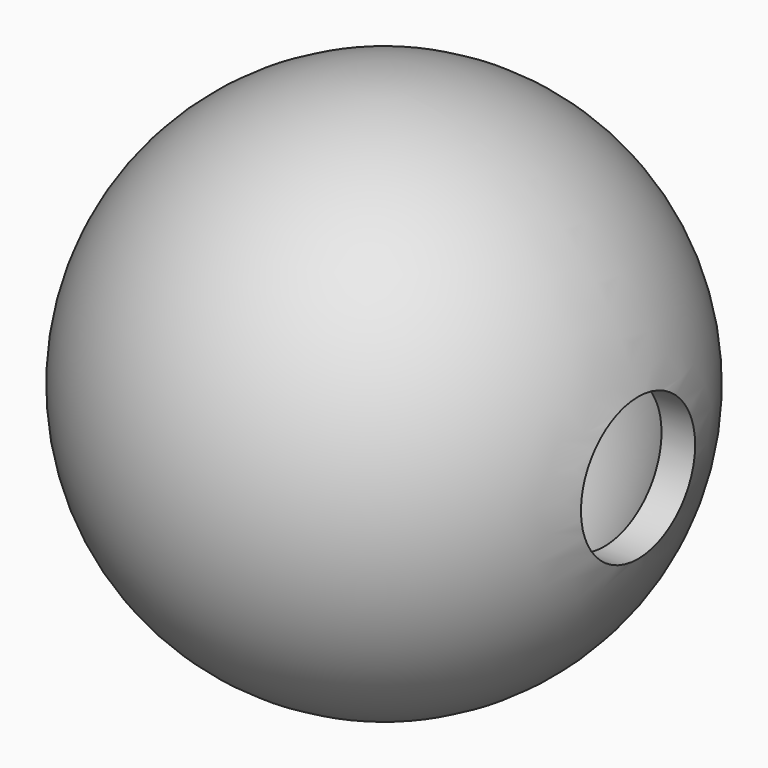
from build123d import *

# Parameters (mm, degrees)
F2_R     = 5.985152
F3_DEPTH = 25.4
F4_DEPTH = 25.4


with BuildPart() as f1:
    # F0 (on Front) → F1 (revolve)
    with BuildSketch(Plane.XZ):
        with BuildLine():
            Line((0, 22.130426), (0, 19.426251))
            ThreePointArc((0, 19.426251), (19.426251, 0), (0, -19.426251))
            Line((0, -19.426251), (0, -22.130426))
            ThreePointArc((0, -22.130426), (22.130426, 0), (0, 22.130426))
        make_face()
    revolve(axis=Axis((0, 0, 11.065213), (0, 0, 1)))

    # F2 (on Right) → F3 (cut)
    with BuildSketch(Plane.YZ):
        Circle(F2_R)
    extrude(amount=-F3_DEPTH, mode=Mode.SUBTRACT)

    # F2 (on Right) → F4 (cut)
    with BuildSketch(Plane.YZ):
        Circle(F2_R)
    extrude(amount=F4_DEPTH, mode=Mode.SUBTRACT)


solid = f1.part
